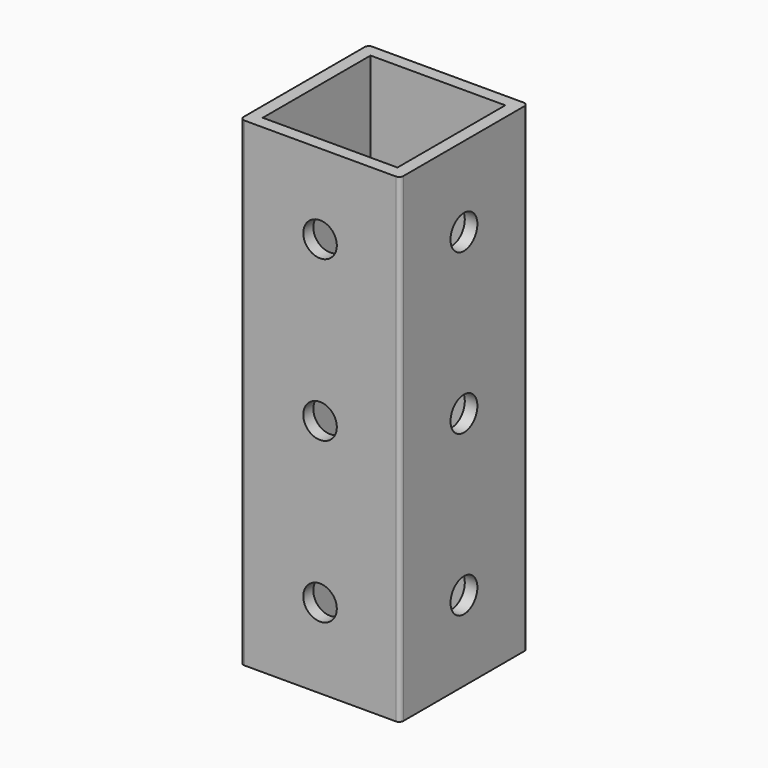
from build123d import *

# Parameters (mm, degrees)
BOX001_W               = 32.1
BOX001_H               = 32.1
BOX001_DEPTH           = 114.3
CYLINDER_R             = 4
CYLINDER_DEPTH         = 38.1
CYLINDER_PITCH_ANGLE   = 90
ARRAY001_Z_COUNT       = 3
ARRAY001_Z_PITCH       = 38.1
CYLINDER001_R          = 4
CYLINDER001_DEPTH      = 38.1
CYLINDER001_ROLL_ANGLE = 90
ARRAY_Z_COUNT          = 3
ARRAY_Z_PITCH          = 38.1
BOX_W                  = 38.1
BOX_H                  = 38.1
BOX_DEPTH              = 114.3
FILLET_R               = 1


with BuildPart() as cutout:
    # Box001 → Box001 (new body)
    with BuildSketch(Plane(origin=(3, 3, 0), x_dir=(1, 0, 0), z_dir=(0, 0, 1))):
        with Locations((16.05, 16.05)):
            Rectangle(BOX001_W, BOX001_H)
    extrude(amount=BOX001_DEPTH)


with BuildPart() as holes2:
    # Cylinder → Cylinder (new body)
    with BuildSketch(Plane.XY):
        Circle(CYLINDER_R)
    extrude(amount=CYLINDER_DEPTH)


with BuildPart() as holes2_1:
    # Cylinder pitch: moved
    add(holes2.part.rotate(Axis((0, 0, 0), (0, 1, 0)), CYLINDER_PITCH_ANGLE))


with BuildPart() as holes2_2:
    # Cylinder placement: moved
    add(holes2_1.part.moved(Location((0, 19.05, 19.05))))

    # Array001 Z: Holes2 ×3


with BuildPart() as holes2_3:
    add(holes2_2.part)
    with Locations(*[(0, 0, i * ARRAY001_Z_PITCH) for i in range(1, ARRAY001_Z_COUNT)]):
        add(holes2_2.part)


with BuildPart() as holes1:
    # Cylinder001 → Cylinder001 (new body)
    with BuildSketch(Plane.XY):
        Circle(CYLINDER001_R)
    extrude(amount=CYLINDER001_DEPTH)


with BuildPart() as holes1_1:
    # Cylinder001 roll: moved
    add(holes1.part.rotate(Axis((0, 0, 0), (1, 0, 0)), CYLINDER001_ROLL_ANGLE))


with BuildPart() as holes1_2:
    # Cylinder001 placement: moved
    add(holes1_1.part.moved(Location((19.05, 38.1, 19.05))))

    # Array Z: Holes1 ×3


with BuildPart() as holes1_3:
    add(holes1_2.part)
    with Locations(*[(0, 0, i * ARRAY_Z_PITCH) for i in range(1, ARRAY_Z_COUNT)]):
        add(holes1_2.part)


with BuildPart() as cut002:
    # Box → Box (new body)
    with BuildSketch(Plane.XY):
        with Locations((19.05, 19.05)):
            Rectangle(BOX_W, BOX_H)
    extrude(amount=BOX_DEPTH)

    # Fillet
    fillet_edges = [cut002.edges().sort_by_distance(p)[0] for p in [
        (0, 0, 57.15),
        (38.1, 0, 57.15),
        (38.1, 38.1, 57.15),
        (0, 38.1, 57.15),
    ]]
    fillet(fillet_edges, radius=FILLET_R)

    # Cut: cut Holes1
    add(holes1_3.part, mode=Mode.SUBTRACT)

    # Cut001: cut Holes2
    add(holes2_3.part, mode=Mode.SUBTRACT)

    # Cut002: cut Cutout
    add(cutout.part, mode=Mode.SUBTRACT)


solid = cut002.part
